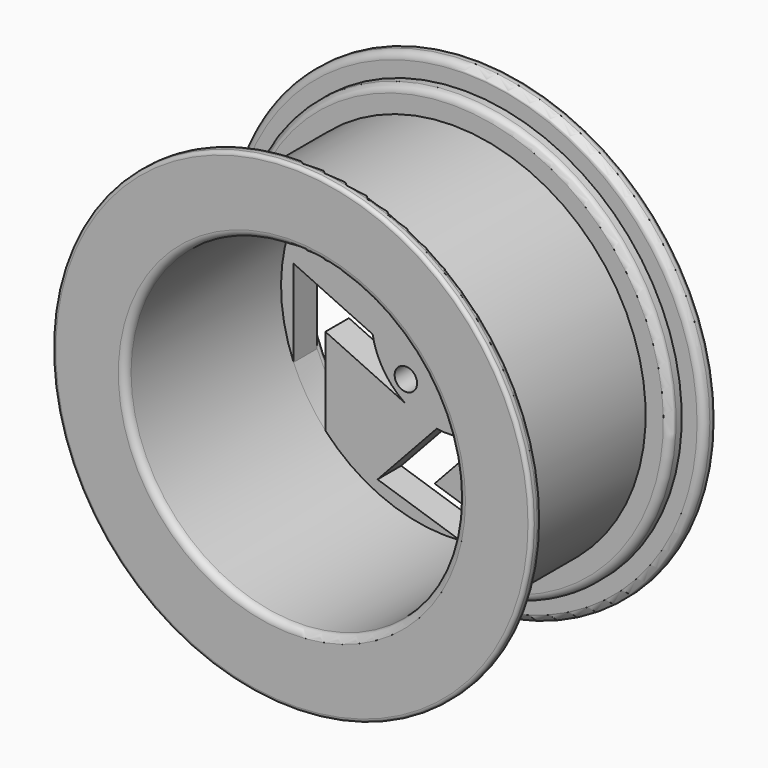
from build123d import *

# Parameters (mm, degrees)
SKETCH_R           = 203.2
PAD_DEPTH          = 195
SKETCH002_R        = 141.2
POCKET_DEPTH       = 165
FILLET_R           = 6
FILLET001_R        = 3
SKETCH004_R        = 9.5
POCKET001_DEPTH    = 195.001
SKETCH005_R        = 141.2
SKETCH005_R_2      = 64.5
POCKET002_DEPTH    = 5
FILLET002_R        = 2.5
FILLET003_R        = 2.5
POCKET003_DEPTH    = 1403.832817
POLARPATTERN_COUNT = 5
SKETCH007_R        = 25
POCKET004_DEPTH    = 195.001


with BuildPart() as part:
    # Sketch → Pad (new body)
    with BuildSketch(Plane.XZ):
        Circle(SKETCH_R)
    extrude(amount=PAD_DEPTH)

    # Sketch002 (on Face3 of Pad) → Pocket (cut)
    with BuildSketch(Plane.XZ.offset(195)):
        Circle(SKETCH002_R)
    extrude(amount=-POCKET_DEPTH, mode=Mode.SUBTRACT)

    # Sketch003 → Groove (revolve, cut)
    with BuildSketch(Plane.YZ):
        Polygon((-183, 203.2), (-183, 184.2), (-171, 184.2), (-171, 163.2), (-24, 163.2), (-24, 184.2), (-12, 184.2), (-12, 203.2), align=None)
    revolve(axis=Axis((0, 0, 0), (0, 1, 0)), mode=Mode.SUBTRACT)

    # Fillet
    fillet_edges = [part.edges().sort_by_distance(p)[0] for p in [
        (0, -24, -184.2),
        (143.684098, -12, 143.684098),
        (-143.684098, -12, -143.684098),
        (143.684098, -183, 143.684098),
        (-143.684098, -183, -143.684098),
        (0, -171, -184.2),
        (-141.2, -195, 0),
    ]]
    fillet(fillet_edges, radius=FILLET_R)

    # Fillet001
    fillet001_edges = [part.edges().sort_by_distance(p)[0] for p in [
        (-203.2, -195, 0),
        (-203.2, 0, 0),
    ]]
    fillet(fillet001_edges, radius=FILLET001_R)

    # Sketch004 (on Face5 of Fillet001) → Pocket001 (cut, through all)
    with BuildSketch(Plane(origin=(0, 0, 0), x_dir=(1, 0, 0), z_dir=(0, 1, 0))):
        with Locations((-35.355339, 35.355339)):
            Circle(SKETCH004_R)
        with Locations((35.355339, 35.355339)):
            Circle(SKETCH004_R)
        with Locations((35.355339, -35.355339)):
            Circle(SKETCH004_R)
        with Locations((-35.355339, -35.355339)):
            Circle(SKETCH004_R)
    extrude(amount=-POCKET001_DEPTH, mode=Mode.SUBTRACT)

    # Sketch005 (on Face5 of Pocket001) → Pocket002 (cut)
    with BuildSketch(Plane(origin=(0, 0, 0), x_dir=(1, 0, 0), z_dir=(0, 1, 0))):
        Circle(SKETCH005_R)
        Circle(SKETCH005_R_2, mode=Mode.SUBTRACT)
    extrude(amount=-POCKET002_DEPTH, mode=Mode.SUBTRACT)

    # Fillet002
    fillet002_edges = [part.edges().sort_by_distance(p)[0] for p in [
        (-141.2, 0, 0),
    ]]
    fillet(fillet002_edges, radius=FILLET002_R)

    # Fillet003
    fillet003_edges = [part.edges().sort_by_distance(p)[0] for p in [
        (-64.5, 0, 0),
    ]]
    fillet(fillet003_edges, radius=FILLET003_R)

    # Sketch006 (on Face3 of Fillet003) → Pocket003 (cut, through all)
    with BuildSketch(Plane(origin=(0, -5, 0), x_dir=(1, 0, 0), z_dir=(0, 1, 0))):
        with BuildLine():
            Line((-63.560748, 10.967285), (-130.548969, -20))
            Line((-130.548969, -20), (-130.548969, 53.799691))
            ThreePointArc((-103.614155, 95.924694), (-118.961007, 76.063913), (-130.548969, 53.799691))
            Line((-103.614155, 22.125002), (-103.614155, 95.924694))
            Line((-36.625934, 53.092287), (-103.614155, 22.125002))
            ThreePointArc((-36.625934, 53.092287), (-54.341253, 34.745909), (-63.560748, 10.967285))
        make_face()
    pocket003 = extrude(amount=-POCKET003_DEPTH, mode=Mode.SUBTRACT)

    # PolarPattern: Pocket003 ×5 about axis
    polarpattern_axis = Axis((0, -5, 0), (0, 1, 0))
    for i in range(1, POLARPATTERN_COUNT):
        add(pocket003.rotate(polarpattern_axis, i * 360 / POLARPATTERN_COUNT), mode=Mode.SUBTRACT)

    # Sketch007 (on Face30 of PolarPattern) → Pocket004 (cut, through all)
    with BuildSketch(Plane(origin=(0, 0, 0), x_dir=(1, 0, 0), z_dir=(0, 1, 0))):
        Circle(SKETCH007_R)
    extrude(amount=-POCKET004_DEPTH, mode=Mode.SUBTRACT)


solid = part.part
